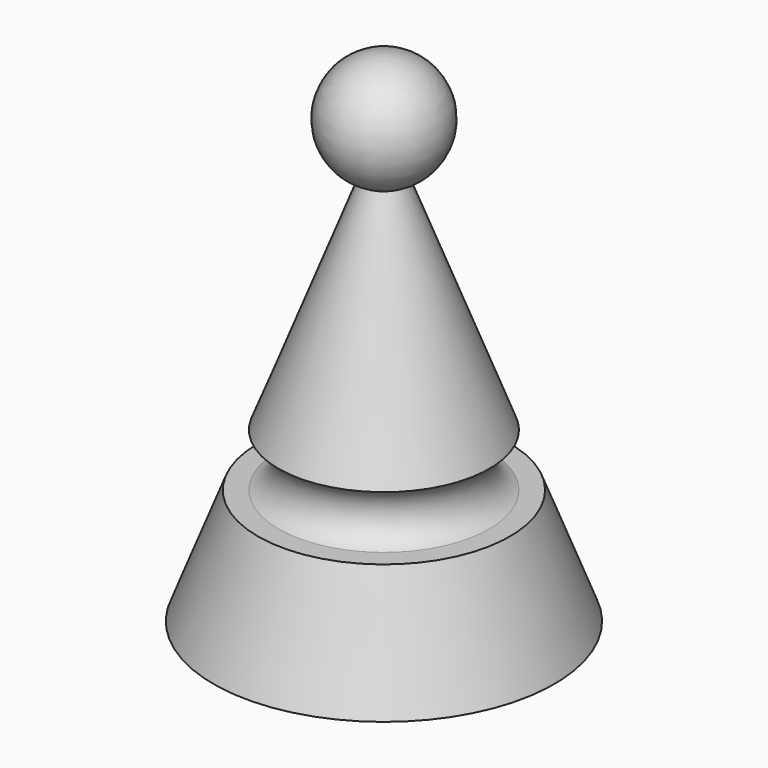
from build123d import *


with BuildPart() as f1:
    # F0 (on Front) → F1 (revolve)
    with BuildSketch(Plane.XZ):
        with BuildLine():
            Line((0, 300.625012), (0, 493.942123))
            ThreePointArc((0, 493.942123), (-98.315083, 412.221742), (-35.943246, 300.625012))
            Line((-35.943246, 300.625012), (0, 300.625012))
        make_face()
        with BuildLine():
            Line((0, 300.625012), (-35.943246, 300.625012))
            Line((-35.943246, 300.625012), (-185.735089, -88.269805))
            ThreePointArc((-185.735089, -88.269805), (-153.706712, -134.920867), (-185.721105, -181.581527))
            Line((-185.721105, -181.581527), (-221.678334, -181.586915))
            Line((-221.678334, -181.586915), (-300, -384.92836))
            Line((-300, -384.92836), (0, -384.92836))
            Line((0, -384.92836), (0, -181.553695))
            Line((0, -181.553695), (0, 15.502977))
            Line((0, 15.502977), (0, 293.942123))
            Line((0, 293.942123), (0, 300.625012))
        make_face()
    revolve(axis=Axis((0, 0, 54.506881), (0, 0, -1)))


solid = f1.part
